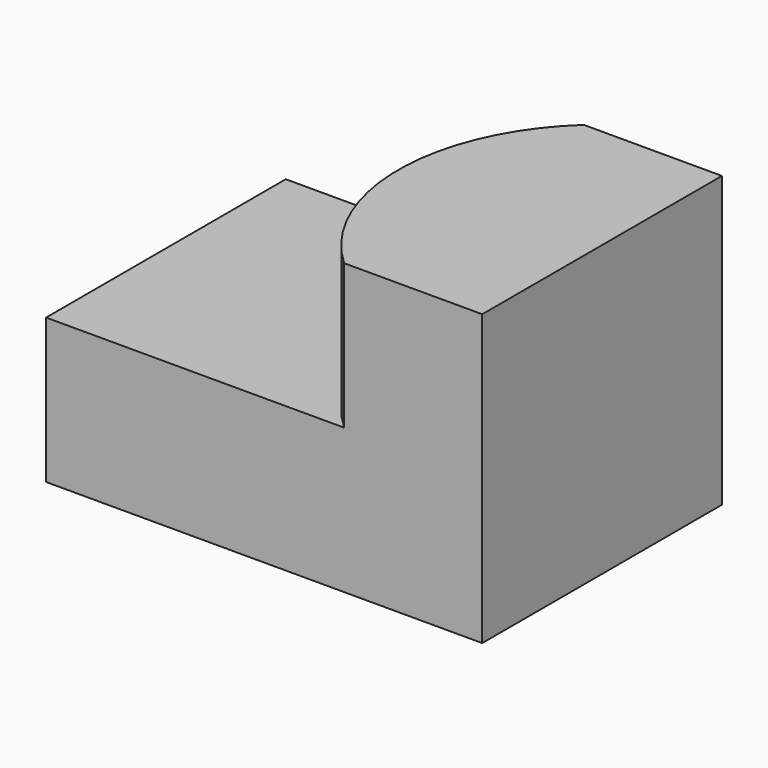
from build123d import *

# Parameters (mm, degrees)
F0_W     = 76.52381
F0_H     = 52.565604
F1_DEPTH = 25.4
F3_DEPTH = 25.4


with BuildPart() as f1:
    # F0 (on Top) → F1 (new body)
    with BuildSketch(Plane.XY):
        Rectangle(F0_W, F0_H)
    extrude(amount=F1_DEPTH)

    # F2 (on face) → F3 (join)
    with BuildSketch(Plane.XY.offset(25.4)):
        with BuildLine():
            Line((38.261905, 26.282802), (14.039008, 26.282802))
            ThreePointArc((14.039008, 26.282802), (2.519291, 0), (14.039008, -26.282802))
            Line((14.039008, -26.282802), (38.261905, -26.282802))
            Line((38.261905, -26.282802), (38.261905, 26.282802))
        make_face()
    extrude(amount=F3_DEPTH)


solid = f1.part
